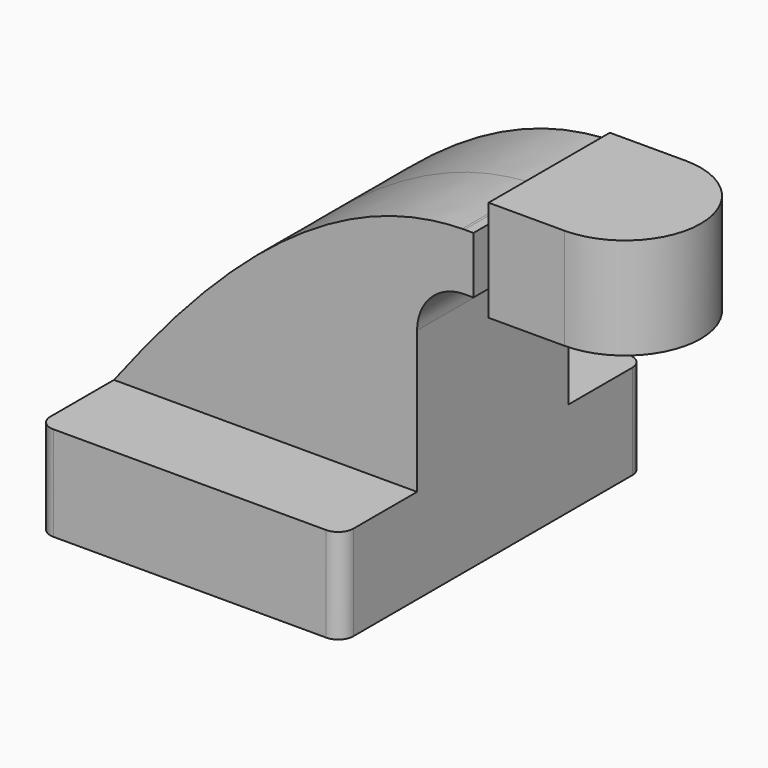
from build123d import *

# Parameters (mm, degrees)
F1_DEPTH = 63.5
F2_DEPTH = 31.75
F0_W     = 25.4
F0_H     = 8.5634328214
F3_DEPTH = 25.4
F5_R     = 5.08


with BuildPart() as f1:
    # F0 (on Front) → F1 (new body, symmetric)
    with BuildSketch(Plane.XZ):
        Polygon((50.8, -15.875), (50.8, 15.875), (31.75, 15.875), (-50.8, 15.875), (-50.8, -15.875), align=None)
    extrude(amount=F1_DEPTH, both=True)

    # F0 (on Front) → F2 (join, symmetric)
    with BuildSketch(Plane.XZ):
        with BuildLine():
            Line((-50.8, 15.875), (31.75, 15.875))
            Line((31.75, 15.875), (31.75, 63.5))
            ThreePointArc((31.75, 63.5), (41.7112794582, 87.9247473214), (65.9128221454, 98.4166824014))
            add(Edge.make_bspline(
                [(-50.8, 15.875), (-20.8947578711, 55.0768055935), (18.9205500182, 97.6768686264), (65.9128221454, 98.4166824014)],
                knots=[0, 0, 0, 0, 142.8073833678, 142.8073833678, 142.8073833678, 142.8073833678], degree=3))
        make_face()
        with BuildLine():
            Line((31.75, 15.875), (50.8, 15.875))
            Line((50.8, 15.875), (50.8, 63.5))
            ThreePointArc((50.8, 63.5), (55.4496798487, 74.7253201513), (66.675, 79.375))
            Line((66.675, 79.375), (69.6957821591, 79.375))
            Line((69.6957821591, 79.375), (69.6957821591, 98.425))
            Line((69.6957821591, 98.425), (66.675, 98.425))
            add(Edge.make_bspline(
                [(65.9128221454, 98.4166824014), (66.1666721422, 98.4206788398), (66.4207315707, 98.4234537508), (66.675, 98.425)],
                knots=[142.8073833678, 142.8073833678, 142.8073833678, 142.8073833678, 143.5788219934, 143.5788219934, 143.5788219934, 143.5788219934], degree=3))
            ThreePointArc((65.9128221454, 98.4166824014), (41.7112794582, 87.9247473214), (31.75, 63.5))
            Line((31.75, 63.5), (31.75, 15.875))
        make_face()
    extrude(amount=F2_DEPTH, both=True)

    # F0 (on Front) → F3 (join, symmetric)
    with BuildSketch(Plane.XZ):
        with Locations((82.3957821591, 75.0932835893)):
            Rectangle(F0_W, F0_H)
        Polygon((69.6957821591, 98.425), (69.6957821591, 79.375), (95.0957821591, 79.375), (95.0957821591, 104.775), (69.6957821591, 104.775), align=None)
    extrude(amount=F3_DEPTH, both=True)

    # F0 (on Front) → F4 (revolve)
    with BuildSketch(Plane.XZ):
        Polygon((95.0957821591, 104.775), (95.0957821591, 79.375), (95.0957821591, 70.8115671786), (120.4957821591, 70.8115671786), (120.4957821591, 104.775), align=None)
    revolve(axis=Axis((95.0957821591, 0, 87.7932835893), (0, 0, 1)))

    # F5
    f5_edges = [f1.edges().sort_by_distance(p)[0] for p in [
        (50.8, -63.5, 0),
        (-50.8, -63.5, 0),
        (-50.8, 63.5, 0),
        (50.8, 63.5, 0),
    ]]
    fillet(f5_edges, radius=F5_R)


solid = f1.part
